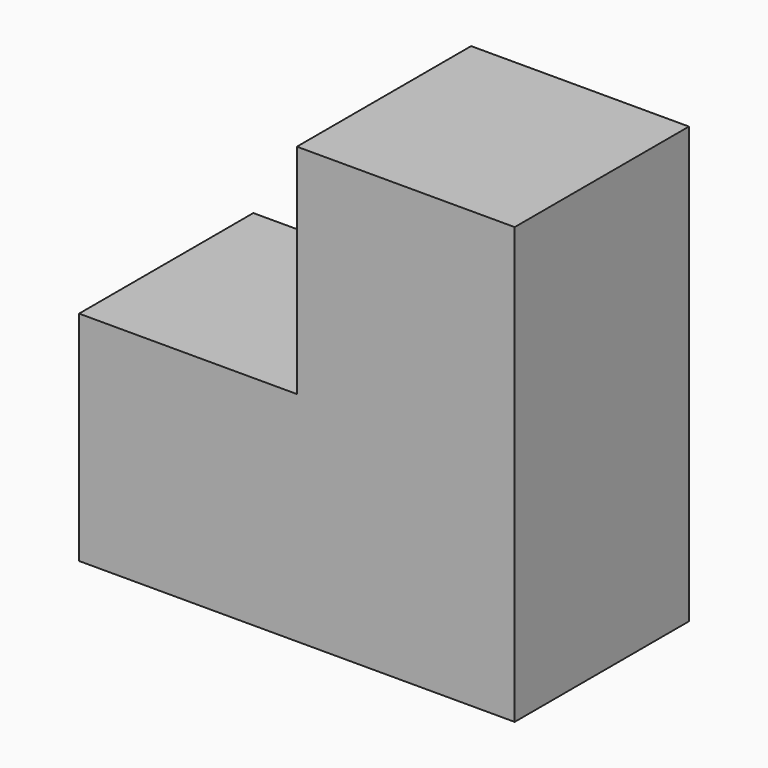
from build123d import *

# Parameters (mm, degrees)
F0_W     = 10
F0_H     = 10
F1_DEPTH = 20
F2_W     = 10
F2_H     = 10
F3_DEPTH = 10


with BuildPart() as f1:
    # F0 (on Top) → F1 (new body)
    with BuildSketch(Plane.XY):
        with Locations((5, 5)):
            Rectangle(F0_W, F0_H)
    extrude(amount=F1_DEPTH)

    # F2 (on face) → F3 (join)
    with BuildSketch(Plane(origin=(0, 0, 0), x_dir=(0, -1, 0), z_dir=(-1, 0, 0))):
        with Locations((-5, 5)):
            Rectangle(F2_W, F2_H)
        with Locations((-5, 5)):
            Rectangle(F2_W, F2_H)
    extrude(amount=F3_DEPTH)


solid = f1.part
